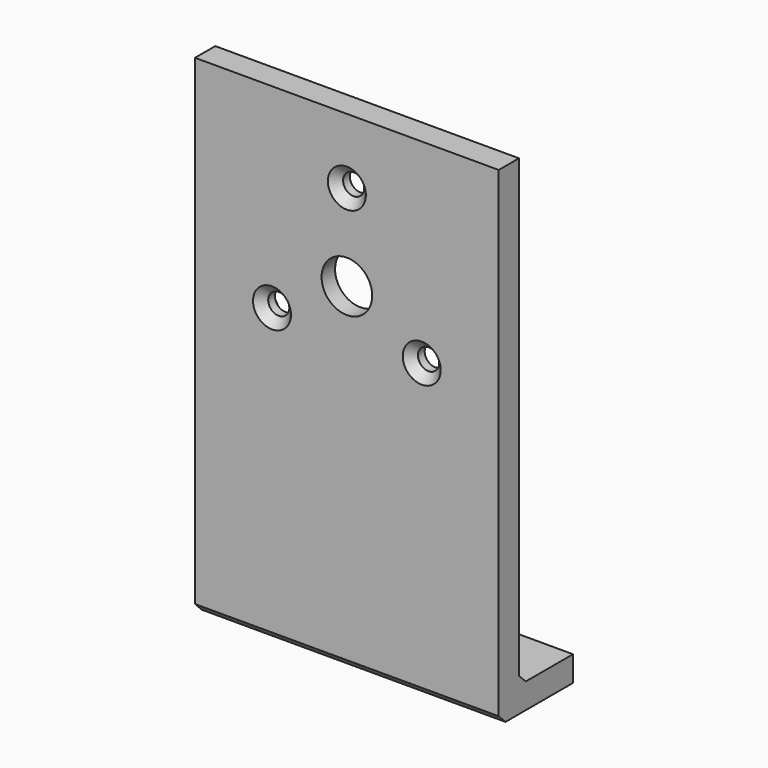
from build123d import *

# Parameters (mm, degrees)
F0_W     = 72
F0_H     = 116
F0_R     = 2.5
F0_R_2   = 6
F2_DEPTH = 6
F1_W     = 72
F1_H     = 22
F1_R     = 3
F3_DEPTH = 6
F4_SIZE  = 2
F5_SIZE  = 2
F6_SIZE  = 2
F7_R     = 25
F7_R_2   = 2.5
F7_R_3   = 6
F8_DEPTH = 2


with BuildPart() as f2:
    # F0 (on Front) → F2 (new body)
    with BuildSketch(Plane.XZ):
        with Locations((0, 58)):
            Rectangle(F0_W, F0_H)
        with Locations((-17.75, 69.752033)):
            Circle(F0_R, mode=Mode.SUBTRACT)
        with Locations((17.75, 69.752033)):
            Circle(F0_R, mode=Mode.SUBTRACT)
        with Locations((0, 80)):
            Circle(F0_R_2, mode=Mode.SUBTRACT)
        with Locations((0, 100.495935)):
            Circle(F0_R, mode=Mode.SUBTRACT)
    extrude(amount=-F2_DEPTH)

    # F1 (on Top) → F3 (join)
    with BuildSketch(Plane.XY):
        with Locations((0, 11)):
            Rectangle(F1_W, F1_H)
        with Locations((-24.75, 15)):
            Circle(F1_R, mode=Mode.SUBTRACT)
        with Locations((24.75, 15)):
            Circle(F1_R, mode=Mode.SUBTRACT)
    extrude(amount=F3_DEPTH)

    # F4
    f4_edges = [f2.edges().sort_by_distance(p)[0] for p in [
        (0, 6, 6),
    ]]
    chamfer(f4_edges, length=F4_SIZE)

    # F5
    f5_edges = [f2.edges().sort_by_distance(p)[0] for p in [
        (0, 0, 0),
    ]]
    chamfer(f5_edges, length=F5_SIZE)

    # F6
    f6_edges = [f2.edges().sort_by_distance(p)[0] for p in [
        (-2.5, 0, 100.495935),
        (-20.25, 0, 69.752033),
        (15.25, 0, 69.752033),
    ]]
    chamfer(f6_edges, length=F6_SIZE)

    # F7 (on face) → F8 (cut)
    with BuildSketch(Plane(origin=(0, 6, 0), x_dir=(-1, 0, 0), z_dir=(0, 1, 0))):
        with Locations((0, 80)):
            Circle(F7_R)
        with Locations((-17.75, 69.752033)):
            Circle(F7_R_2, mode=Mode.SUBTRACT)
        with Locations((17.75, 69.752033)):
            Circle(F7_R_2, mode=Mode.SUBTRACT)
        with Locations((0, 80)):
            Circle(F7_R_3, mode=Mode.SUBTRACT)
        with Locations((0, 100.495935)):
            Circle(F7_R_2, mode=Mode.SUBTRACT)
    extrude(amount=-F8_DEPTH, mode=Mode.SUBTRACT)


solid = f2.part
